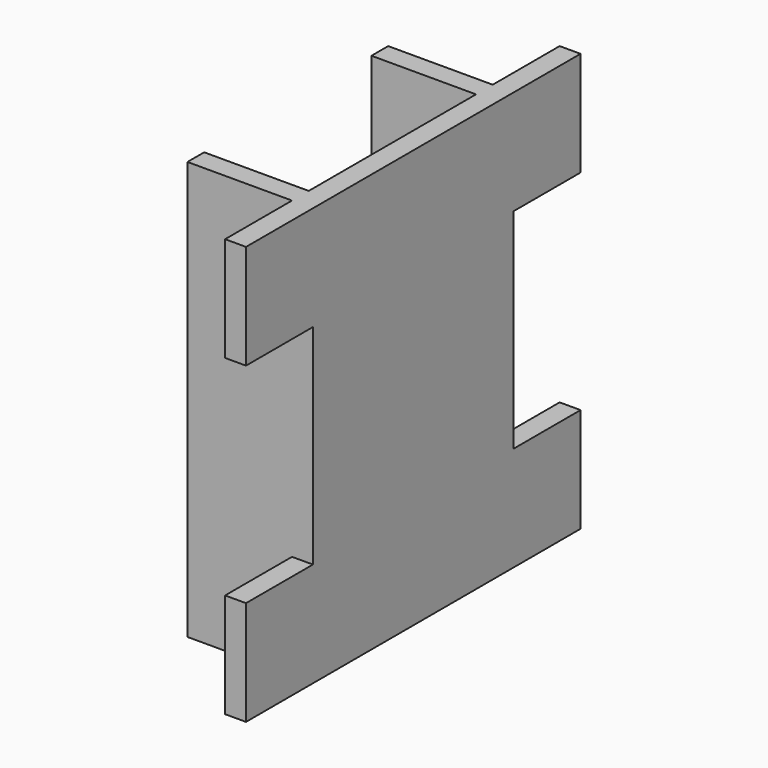
from build123d import *

# Parameters (mm, degrees)
F1_DEPTH = 80
F2_W     = 16
F2_H     = 40
F3_DEPTH = 24.001


with BuildPart() as f1:
    # F0 (on Top) → F1 (new body)
    with BuildSketch(Plane.XY):
        Polygon((20, 0), (0, 0), (0, -4), (20, -4), (20, -44), (0, -44), (0, -48), (20, -48), (20, -64), (24, -64), (24, 16), (20, 16), align=None)
    extrude(amount=F1_DEPTH)

    # F2 (on face) → F3 (cut, through all)
    with BuildSketch(Plane.YZ.offset(24)):
        with Locations((8, 40)):
            Rectangle(F2_W, F2_H)
        with Locations((-56, 40)):
            Rectangle(F2_W, F2_H)
    extrude(amount=-F3_DEPTH, mode=Mode.SUBTRACT)


solid = f1.part
